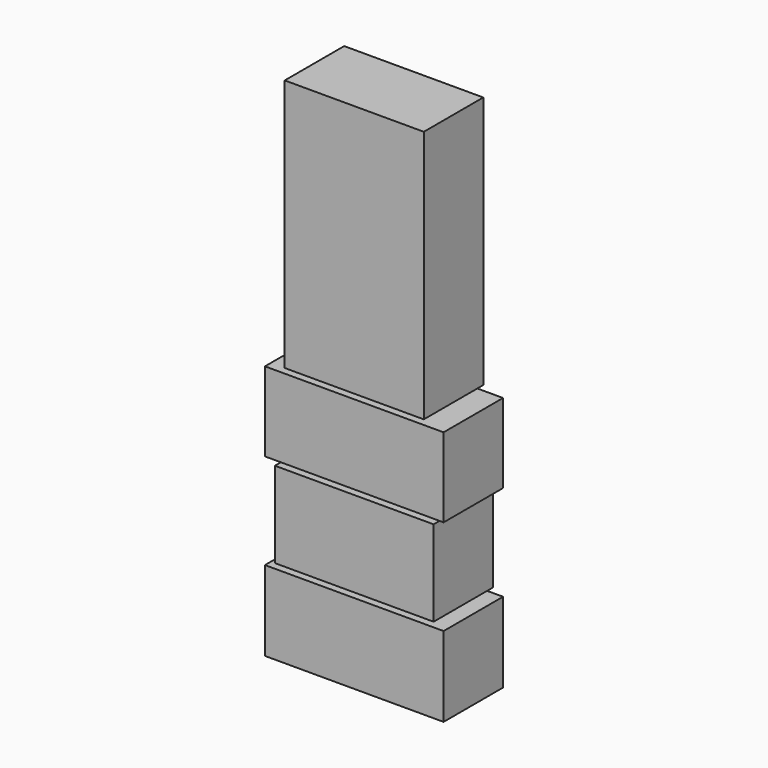
from build123d import *

# Parameters (mm, degrees)
F0_W     = 45.7708
F0_H     = 20.4978
F0_W_2   = 40.6654
F0_H_2   = 21.971
F0_H_3   = 20.32
F0_W_3   = 35.6362
F0_H_4   = 64.8716
F1_DEPTH = 19.05


with BuildPart() as f1:
    # F0 (on Front) → F1 (new body)
    with BuildSketch(Plane.XZ):
        with Locations((22.8854, 10.2489)):
            Rectangle(F0_W, F0_H)
        with Locations((22.8854, 32.7533)):
            Rectangle(F0_W_2, F0_H_2)
        with Locations((22.8854, 55.1688)):
            Rectangle(F0_W, F0_H_3)
        with Locations((22.8854, 99.0346)):
            Rectangle(F0_W_3, F0_H_4)
    extrude(amount=F1_DEPTH)


solid = f1.part
